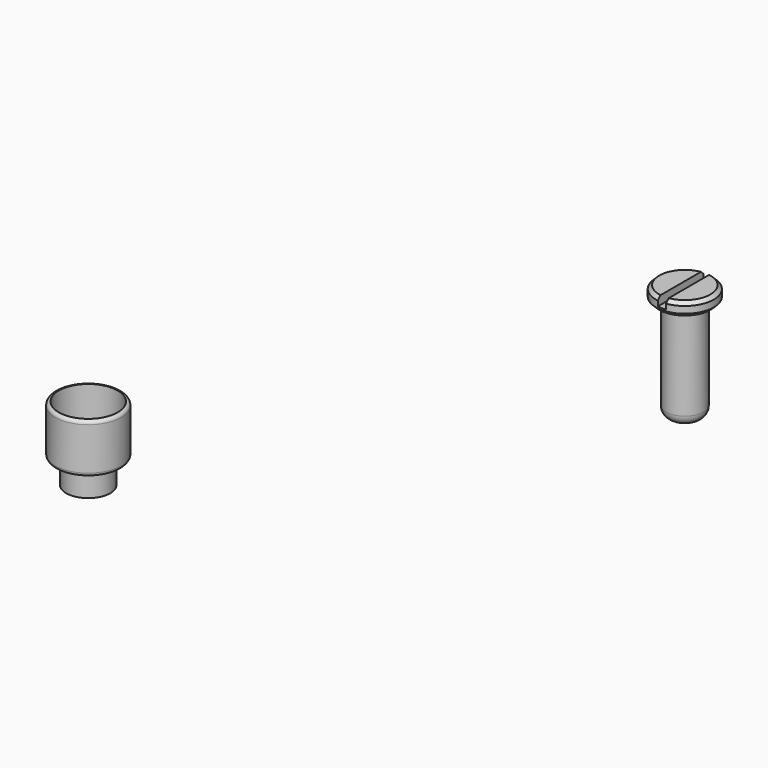
from build123d import *

# Parameters (mm, degrees)
F0_R      = 4.826
F1_DEPTH  = 7.239
F2_R      = 3.2385
F3_DEPTH  = 3.556
F4_R      = 0.5
F5_T      = -0.5
F6_DEPTH  = 1
F7_R      = 2.75
F8_DEPTH  = 10
F9_R      = 4.2500011623
F10_DEPTH = 2
F12_DEPTH = 1.25
F13_SIZE  = 0.5
F14_DEPTH = 5
F15_R     = 1.5


with BuildPart() as f1:
    # F0 (on Top) → F1 (new body)
    with BuildSketch(Plane.XY):
        Circle(F0_R)
    extrude(amount=-F1_DEPTH)

    # F2 (on face) → F3 (join)
    with BuildSketch(Plane(origin=(0, 0, -7.239), x_dir=(1, 0, 0), z_dir=(0, 0, -1))):
        Circle(F2_R)
    extrude(amount=F3_DEPTH)

    # F4
    f4_edges = [f1.edges().sort_by_distance(p)[0] for p in [
        (-4.826, 0, 0),
        (-4.826, 0, -7.239),
        (-3.2385, 0, -7.239),
    ]]
    fillet(f4_edges, radius=F4_R)

    # F5 (hollow: no face is removed)
    offset(amount=F5_T, kind=Kind.INTERSECTION, mode=Mode.SUBTRACT)

    # F6 (cut): a face of the model
    f6_faces = [f1.faces().sort_by_distance(p)[0] for p in [
        (0, 0, 0),
    ]]
    extrude(f6_faces, amount=-F6_DEPTH, mode=Mode.SUBTRACT)


with BuildPart() as f8:
    # F7 (on Top) → F8 (new body)
    with BuildSketch(Plane.XY):
        with Locations((49.6975630522, 47.2114011645)):
            Circle(F7_R)
    extrude(amount=F8_DEPTH)

    # F9 (on face) → F10 (join)
    with BuildSketch(Plane.XY.offset(10)):
        with Locations((49.6975630522, 47.2114011645)):
            Circle(F9_R)
    extrude(amount=F10_DEPTH)

    # F11 (on face) → F12 (cut)
    with BuildSketch(Plane.XY.offset(12)):
        with BuildLine():
            Line((49.0975630522, 51.4188362359), (49.0975630522, 47.2114011645))
            Line((49.0975630522, 47.2114011645), (49.0975630522, 43.0039660932))
            ThreePointArc((49.0975630522, 43.0039660932), (49.6975630522, 42.9614000022), (50.2975630522, 43.0039660932))
            Line((50.2975630522, 43.0039660932), (50.2975630522, 47.2114011645))
            Line((50.2975630522, 47.2114011645), (50.2975630522, 51.4188362359))
            ThreePointArc((50.2975630522, 51.4188362359), (49.6975630522, 51.4614023268), (49.0975630522, 51.4188362359))
        make_face()
    extrude(amount=-F12_DEPTH, mode=Mode.SUBTRACT)

    # F13
    f13_edges = [f8.edges().sort_by_distance(p)[0] for p in [
        (45.447562, 47.211401, 12),
        (52.907899, 44.426396, 12),
        (52.907899, 49.996406, 12),
        (45.447562, 47.211401, 10),
    ]]
    chamfer(f13_edges, length=F13_SIZE)

    # F14 (add): a face of the model
    f14_faces = [f8.faces().sort_by_distance(p)[0] for p in [
        (49.6975630522, 47.2114011645, 0),
    ]]
    extrude(f14_faces, amount=F14_DEPTH)

    # F15
    f15_edges = [f8.edges().sort_by_distance(p)[0] for p in [
        (46.947563, 47.211401, -5),
    ]]
    fillet(f15_edges, radius=F15_R)


solid = Compound([f1.part, f8.part])
